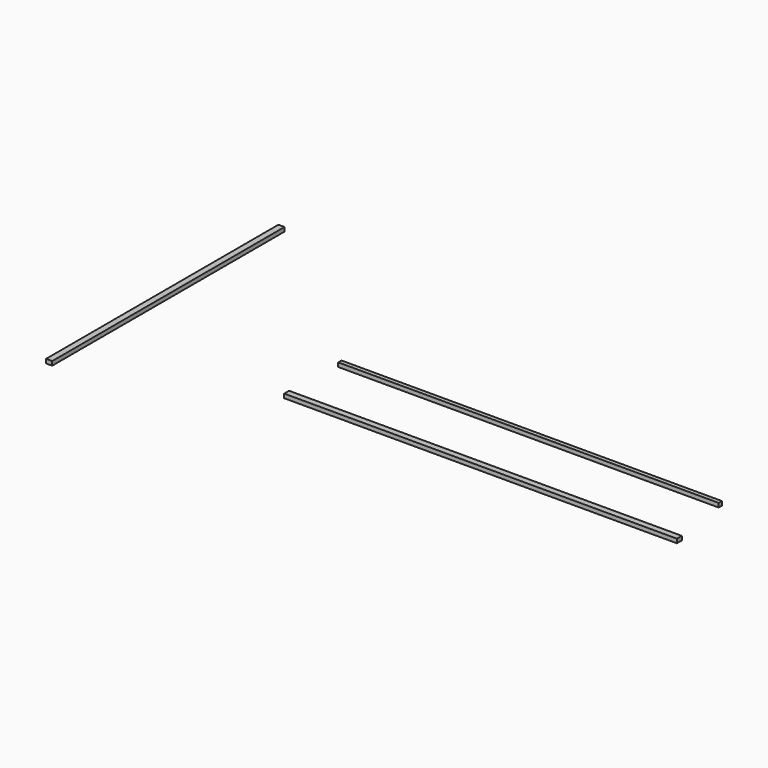
from build123d import *

# Parameters (mm, degrees)
F0_W     = 4800
F0_H     = 75
F0_W_2   = 4650
F0_H_2   = 50
F0_W_3   = 75
F0_H_3   = 3550
F1_DEPTH = 50


with BuildPart() as f1:
    # F0 (on Top) → F1 (new body)
    with BuildSketch(Plane.XY):
        with Locations((1516.577808, -42.954547)):
            Rectangle(F0_W, F0_H)
        with Locations((1441.577808, 770.774746)):
            Rectangle(F0_W_2, F0_H_2)
        with Locations((-3069.799328, 836.298549)):
            Rectangle(F0_W_3, F0_H_3)
    extrude(amount=F1_DEPTH)


solid = f1.part
